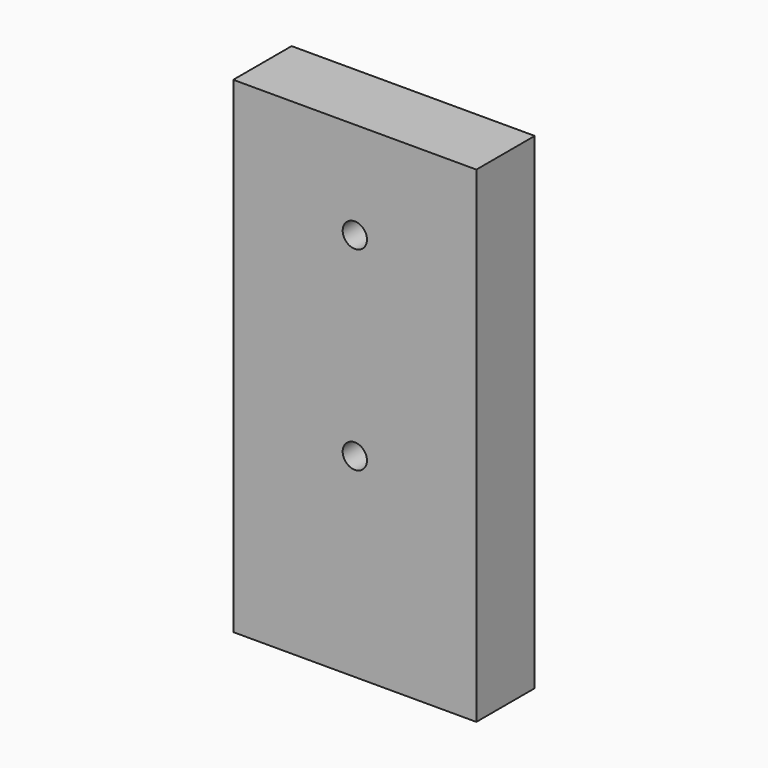
from build123d import *

# Parameters (mm, degrees)
F1_DEPTH = 30
F2_R     = 5
F3_DEPTH = 30
F4_DEPTH = 30


with BuildPart() as f1:
    # F0 (on Front) → F1 (new body)
    with BuildSketch(Plane.XZ):
        Polygon((-50, 100), (-50, 0), (-50, -100), (0, -100), (50, -100), (50, 0), (50, 100), (0, 100), align=None)
    extrude(amount=F1_DEPTH)

    # F2 (on face) → F3 (cut)
    with BuildSketch(Plane.XZ.offset(30)):
        with Locations((0, 60)):
            Circle(F2_R)
    extrude(amount=-F3_DEPTH, mode=Mode.SUBTRACT)

    # F2 (on face) → F4 (cut)
    with BuildSketch(Plane.XZ.offset(30)):
        with Locations((0, -20)):
            Circle(F2_R)
        with Locations((0, 60)):
            Circle(F2_R)
    extrude(amount=-F4_DEPTH, mode=Mode.SUBTRACT)


solid = f1.part
